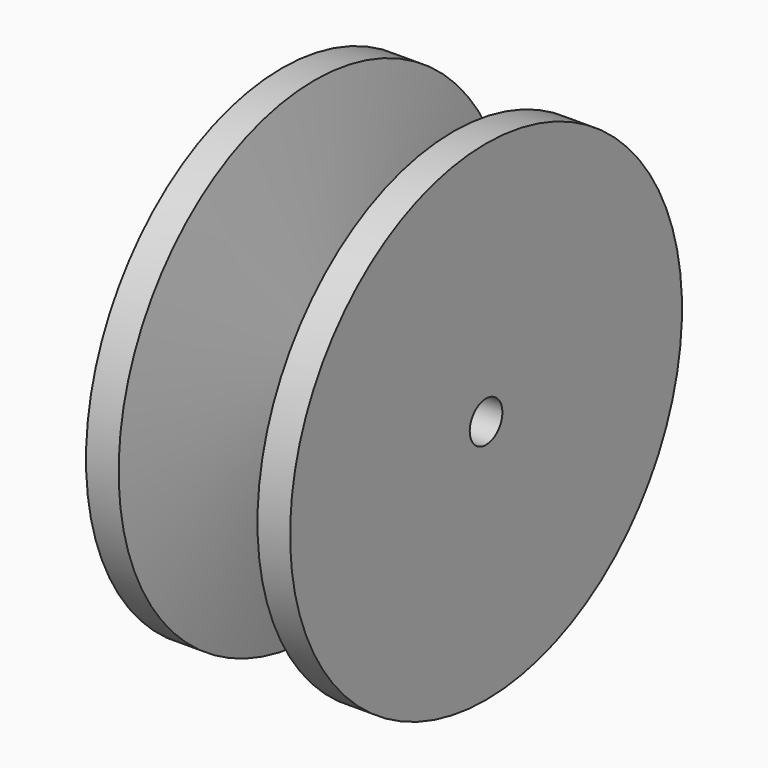
from build123d import *

# Parameters (mm, degrees)
F2_R     = 2.5
F3_DEPTH = 25.001


with BuildPart() as f1:
    # F0 (on Front) → F1 (revolve)
    with BuildSketch(Plane.XZ):
        Polygon((0, 30), (0, 0), (25, 0), (25, 30), (21, 30), (17.5, 5.096206), (7.5, 5.096206), (4, 30), align=None)
    revolve(axis=Axis((12.5, 0, 0), (1, 0, 0)))

    # F2 (on face) → F3 (cut, through all)
    with BuildSketch(Plane(origin=(0, 0, 0), x_dir=(0, -1, 0), z_dir=(-1, 0, 0))):
        Circle(F2_R)
    extrude(amount=-F3_DEPTH, mode=Mode.SUBTRACT)


solid = f1.part
